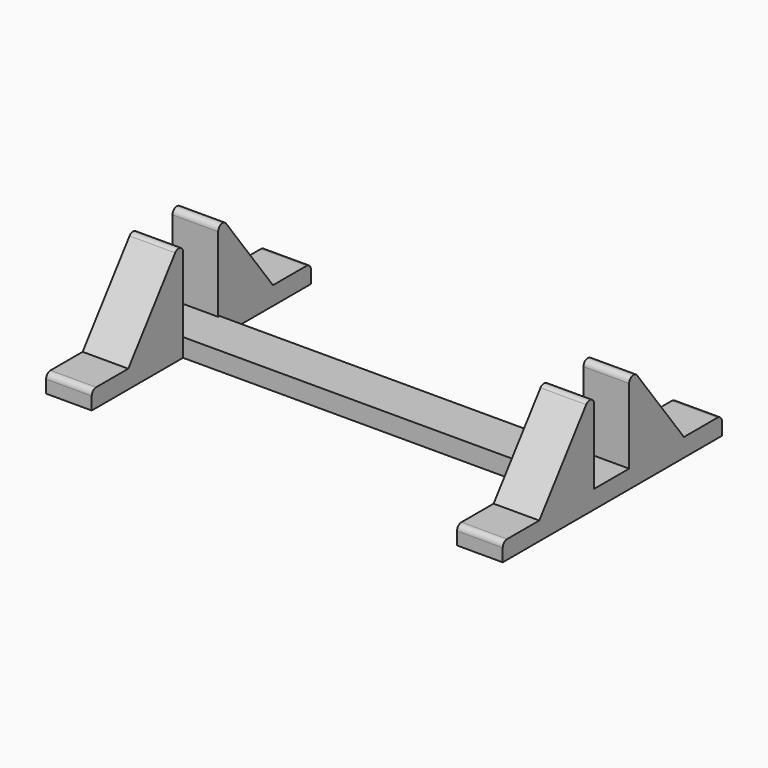
from build123d import *

# Parameters (mm, degrees)
PAD_DEPTH    = 10
PAD001_DEPTH = 25
PAD002_DEPTH = 25
FILLET_R     = 3
FILLET001_R  = 3
FILLET002_R  = 3
FILLET003_R  = 3
FILLET004_R  = 3
FILLET005_R  = 3
FILLET006_R  = 3
FILLET007_R  = 3


with BuildPart() as part:
    # Sketch → Pad (new body)
    with BuildSketch(Plane.XY):
        Polygon((0, 0), (25, 0), (25, 62.5), (225, 62.5), (225, 0), (250, 0), (250, 150), (225, 150), (225, 87.5), (25, 87.5), (25, 150), (0, 150), align=None)
    extrude(amount=PAD_DEPTH)

    # Sketch001 → Pad001 (join)
    with BuildSketch(Plane.YZ):
        Polygon((17.5, 0), (62.5, 60), (62.5, 0), align=None)
        Polygon((86.5, 0), (86.5, 60), (131.5, 0), align=None)
    extrude(amount=PAD001_DEPTH)

    # Sketch002 (on Face23 of Pad001) → Pad002 (join)
    with BuildSketch(Plane.YZ.offset(250)):
        Polygon((17.5, 0), (62.5, 60), (62.5, 0), align=None)
        Polygon((86.5, 60), (86.5, 0), (131.5, 0), align=None)
    extrude(amount=-PAD002_DEPTH)

    # Fillet
    fillet_edges = [part.edges().sort_by_distance(p)[0] for p in [
        (237.5, 150, 10),
    ]]
    fillet(fillet_edges, radius=FILLET_R)

    # Fillet001
    fillet001_edges = [part.edges().sort_by_distance(p)[0] for p in [
        (12.5, 150, 10),
    ]]
    fillet(fillet001_edges, radius=FILLET001_R)

    # Fillet002
    fillet002_edges = [part.edges().sort_by_distance(p)[0] for p in [
        (237.5, 0, 10),
    ]]
    fillet(fillet002_edges, radius=FILLET002_R)

    # Fillet003
    fillet003_edges = [part.edges().sort_by_distance(p)[0] for p in [
        (12.5, 0, 10),
    ]]
    fillet(fillet003_edges, radius=FILLET003_R)

    # Fillet004
    fillet004_edges = [part.edges().sort_by_distance(p)[0] for p in [
        (237.5, 86.5, 60),
    ]]
    fillet(fillet004_edges, radius=FILLET004_R)

    # Fillet005
    fillet005_edges = [part.edges().sort_by_distance(p)[0] for p in [
        (237.5, 62.5, 60),
    ]]
    fillet(fillet005_edges, radius=FILLET005_R)

    # Fillet006
    fillet006_edges = [part.edges().sort_by_distance(p)[0] for p in [
        (12.5, 86.5, 60),
    ]]
    fillet(fillet006_edges, radius=FILLET006_R)

    # Fillet007
    fillet007_edges = [part.edges().sort_by_distance(p)[0] for p in [
        (12.5, 62.5, 60),
    ]]
    fillet(fillet007_edges, radius=FILLET007_R)


solid = part.part
